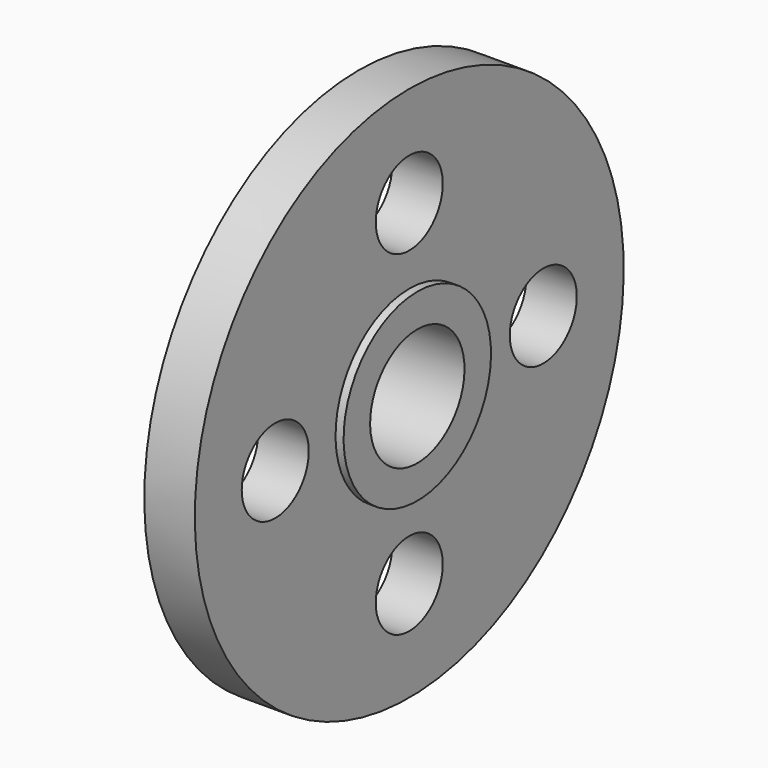
from build123d import *

# Parameters (mm, degrees)
F2_R     = 7.9375
F3_DEPTH = 37.846


with BuildPart() as f1:
    # F0 (on Front) → F1 (revolve)
    with BuildSketch(Plane.XZ):
        Polygon((1.122129, 15.0876), (1.122129, 11.176), (16.997129, 11.176), (16.997129, 17.4625), (15.473129, 17.4625), (15.473129, 50.8), (5.897329, 50.8), (5.897329, 15.0876), align=None)
    revolve(axis=Axis((1.798739, 0, 0), (1, 0, 0)))

    # F2 (on face) → F3 (cut)
    with BuildSketch(Plane(origin=(5.897329, 0, 0), x_dir=(0, -1, 0), z_dir=(-1, 0, 0))):
        with Locations((0, 31.75)):
            Circle(F2_R)
        with Locations((-31.75, 0)):
            Circle(F2_R)
        with Locations((0, -31.75)):
            Circle(F2_R)
        with Locations((31.75, 0)):
            Circle(F2_R)
    extrude(amount=-F3_DEPTH, mode=Mode.SUBTRACT)


solid = f1.part
